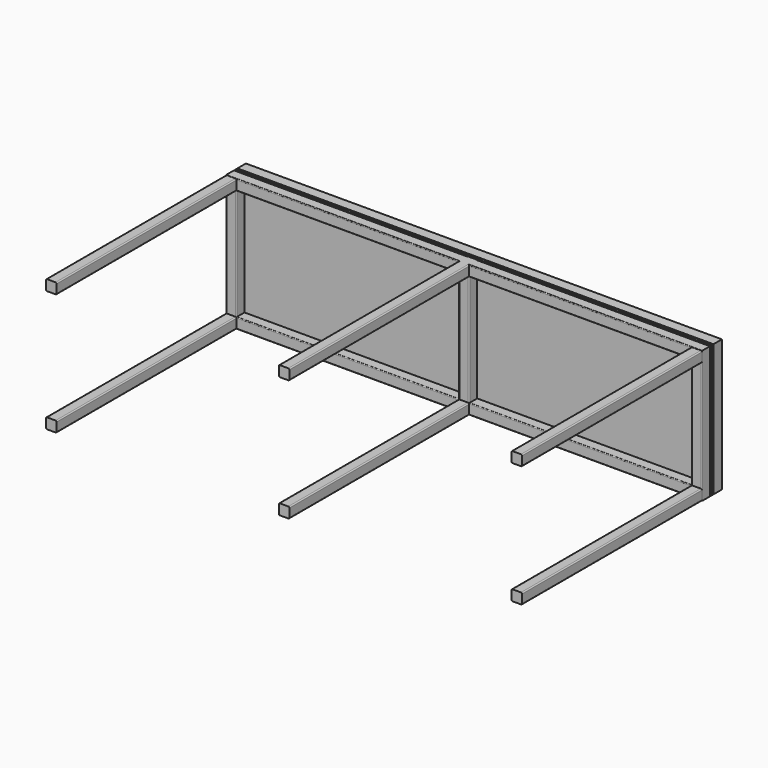
from build123d import *

# Parameters (mm, degrees)
F1_DEPTH  = 850
F10_DEPTH = 463.037699461
F2_W      = 10
F2_H      = 500
F3_DEPTH  = 1800
F4_W      = 40
F4_H      = 500
F5_DEPTH  = 1800


with BuildPart() as f7:
    # F7: sweep along a path in F6
    with BuildLine(Plane.XZ) as f7_path:
        Line((-880, -230), (-880, 230))
        Line((-880, 230), (880, 230))
        Line((880, 230), (880, -230))
        Line((880, -230), (-880, -230))
    # F0 (on Right) → F7 (sweep)
    with BuildSketch(Plane.YZ):
        with BuildLine():
            Line((-17, -250), (17, -250))
            ThreePointArc((17, -250), (19.1213203436, -249.1213203436), (20, -247))
            Line((20, -247), (20, -213))
            ThreePointArc((20, -213), (19.1213203436, -210.8786796564), (17, -210))
            Line((17, -210), (-17, -210))
            ThreePointArc((-17, -210), (-19.1213203436, -210.8786796564), (-20, -213))
            Line((-20, -213), (-20, -247))
            ThreePointArc((-20, -247), (-19.1213203436, -249.1213203436), (-17, -250))
        make_face()
    sweep(path=f7_path.line, transition=Transition.RIGHT)

    # F8 (on face) → F1 (join)
    with BuildSketch(Plane.XZ.offset(20)):
        with BuildLine():
            ThreePointArc((860, 214), (861.1715728753, 211.1715728753), (864, 210))
            Line((864, 210), (896, 210))
            ThreePointArc((896, 210), (898.8284271247, 211.1715728753), (900, 214))
            Line((900, 214), (900, 246))
            ThreePointArc((900, 246), (898.8284271247, 248.8284271247), (896, 250))
            Line((896, 250), (864, 250))
            ThreePointArc((864, 250), (861.1715728753, 248.8284271247), (860, 246))
            Line((860, 246), (860, 214))
        make_face()
        with BuildLine():
            Line((864, -250), (896, -250))
            ThreePointArc((896, -250), (898.8284271247, -248.8284271247), (900, -246))
            Line((900, -246), (900, -214))
            ThreePointArc((900, -214), (898.8284271247, -211.1715728753), (896, -210))
            Line((896, -210), (864, -210))
            ThreePointArc((864, -210), (861.1715728753, -211.1715728753), (860, -214))
            Line((860, -214), (860, -246))
            ThreePointArc((860, -246), (861.1715728753, -248.8284271247), (864, -250))
        make_face()
        with BuildLine():
            Line((-16, 210), (16, 210))
            ThreePointArc((16, 210), (18.8284271247, 211.1715728753), (20, 214))
            Line((20, 214), (20, 246))
            ThreePointArc((20, 246), (18.8284271247, 248.8284271247), (16, 250))
            Line((16, 250), (-16, 250))
            ThreePointArc((-16, 250), (-18.8284271247, 248.8284271247), (-20, 246))
            Line((-20, 246), (-20, 214))
            ThreePointArc((-20, 214), (-18.8284271247, 211.1715728753), (-16, 210))
        make_face()
        with BuildLine():
            Line((-16, -250), (16, -250))
            ThreePointArc((16, -250), (18.8284271247, -248.8284271247), (20, -246))
            Line((20, -246), (20, -214))
            ThreePointArc((20, -214), (18.8284271247, -211.1715728753), (16, -210))
            Line((16, -210), (-16, -210))
            ThreePointArc((-16, -210), (-18.8284271247, -211.1715728753), (-20, -214))
            Line((-20, -214), (-20, -246))
            ThreePointArc((-20, -246), (-18.8284271247, -248.8284271247), (-16, -250))
        make_face()
        with BuildLine():
            Line((-896, 210), (-864, 210))
            ThreePointArc((-864, 210), (-861.1715728753, 211.1715728753), (-860, 214))
            Line((-860, 214), (-860, 246))
            ThreePointArc((-860, 246), (-861.1715728753, 248.8284271247), (-864, 250))
            Line((-864, 250), (-896, 250))
            ThreePointArc((-896, 250), (-898.8284271247, 248.8284271247), (-900, 246))
            Line((-900, 246), (-900, 214))
            ThreePointArc((-900, 214), (-898.8284271247, 211.1715728753), (-896, 210))
        make_face()
        with BuildLine():
            Line((-896, -250), (-864, -250))
            ThreePointArc((-864, -250), (-861.1715728753, -248.8284271247), (-860, -246))
            Line((-860, -246), (-860, -214))
            ThreePointArc((-860, -214), (-861.1715728753, -211.1715728753), (-864, -210))
            Line((-864, -210), (-896, -210))
            ThreePointArc((-896, -210), (-898.8284271247, -211.1715728753), (-900, -214))
            Line((-900, -214), (-900, -246))
            ThreePointArc((-900, -246), (-898.8284271247, -248.8284271247), (-896, -250))
        make_face()
    extrude(amount=F1_DEPTH)

    # F9 (on face) → F10 (join)
    with BuildSketch(Plane.XY.offset(250)):
        with BuildLine():
            Line((16, 20), (-16, 20))
            ThreePointArc((-16, 20), (-18.8284271247, 18.8284271247), (-20, 16))
            Line((-20, 16), (-20, -16))
            ThreePointArc((-20, -16), (-18.8284271247, -18.8284271247), (-16, -20))
            Line((-16, -20), (16, -20))
            ThreePointArc((16, -20), (18.8284271247, -18.8284271247), (20, -16))
            Line((20, -16), (20, 16))
            ThreePointArc((20, 16), (18.8284271247, 18.8284271247), (16, 20))
        make_face()
    extrude(amount=-F10_DEPTH)


with BuildPart() as f3:
    # F2 (on face) → F3 (new body)
    with BuildSketch(Plane.YZ.offset(900)):
        with Locations((27.5, 0)):
            Rectangle(F2_W, F2_H)
    extrude(amount=-F3_DEPTH)


with BuildPart() as f5:
    # F4 (on face) → F5 (new body)
    with BuildSketch(Plane.YZ.offset(900)):
        with Locations((54.5, 0)):
            Rectangle(F4_W, F4_H)
    extrude(amount=-F5_DEPTH)


solid = Compound([f7.part, f3.part, f5.part])
